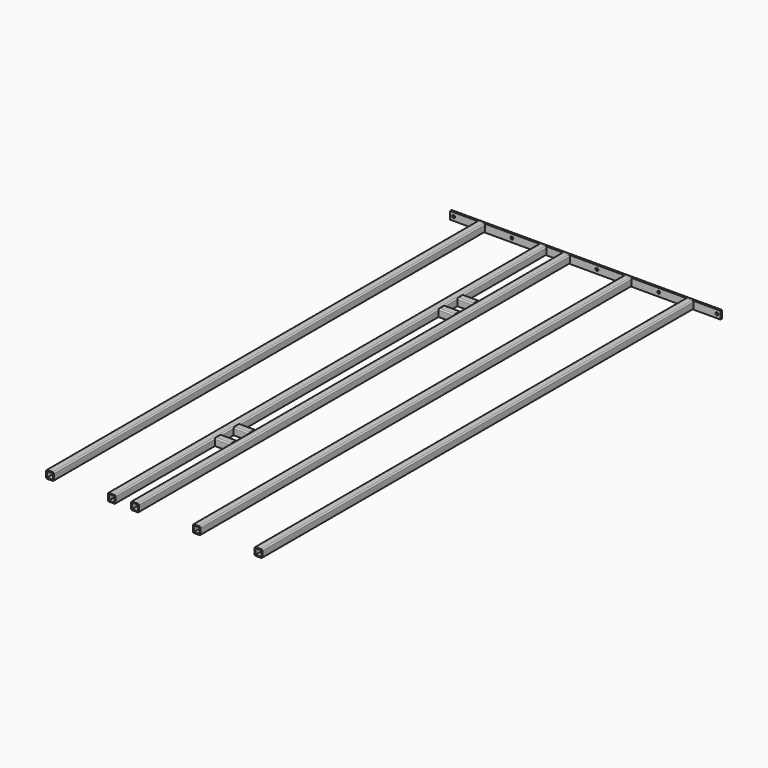
from build123d import *

# Parameters (mm, degrees)
F1_DEPTH = 881.0625
F3_DEPTH = 25.4
F4_W     = 441.96
F4_H     = 12.7
F4_R     = 2.286
F4_R_2   = 0.127
F5_DEPTH = 3.175


with BuildPart() as f1:
    # F0 (on Front) → F1 (new body)
    with BuildSketch(Plane.XZ):
        with BuildLine():
            Line((-4.445, -6.35), (4.445, -6.35))
            ThreePointArc((4.445, -6.35), (5.792038, -5.792038), (6.35, -4.445))
            Line((6.35, -4.445), (6.35, 4.445))
            ThreePointArc((6.35, 4.445), (5.792038, 5.792038), (4.445, 6.35))
            Line((4.445, 6.35), (-4.445, 6.35))
            ThreePointArc((-4.445, 6.35), (-5.792038, 5.792038), (-6.35, 4.445))
            Line((-6.35, 4.445), (-6.35, -4.445))
            ThreePointArc((-6.35, -4.445), (-5.792038, -5.792038), (-4.445, -6.35))
        make_face()
        with BuildLine():
            Line((-4.445, 4.699), (4.445, 4.699))
            ThreePointArc((4.445, 4.699), (4.624605, 4.624605), (4.699, 4.445))
            Line((4.699, 4.445), (4.699, -4.445))
            ThreePointArc((4.699, -4.445), (4.624605, -4.624605), (4.445, -4.699))
            Line((4.445, -4.699), (-4.445, -4.699))
            ThreePointArc((-4.445, -4.699), (-4.624605, -4.624605), (-4.699, -4.445))
            Line((-4.699, -4.445), (-4.699, 4.445))
            ThreePointArc((-4.699, 4.445), (-4.624605, 4.624605), (-4.445, 4.699))
        make_face(mode=Mode.SUBTRACT)
        with BuildLine():
            Line((33.655, -6.35), (42.545, -6.35))
            ThreePointArc((42.545, -6.35), (43.892038, -5.792038), (44.45, -4.445))
            Line((44.45, -4.445), (44.45, 4.445))
            ThreePointArc((44.45, 4.445), (43.892038, 5.792038), (42.545, 6.35))
            Line((42.545, 6.35), (33.655, 6.35))
            ThreePointArc((33.655, 6.35), (32.307962, 5.792038), (31.75, 4.445))
            Line((31.75, 4.445), (31.75, -4.445))
            ThreePointArc((31.75, -4.445), (32.307962, -5.792038), (33.655, -6.35))
        make_face()
        with BuildLine():
            ThreePointArc((33.655, -4.699), (33.475395, -4.624605), (33.401, -4.445))
            Line((33.401, -4.445), (33.401, 4.445))
            ThreePointArc((33.401, 4.445), (33.475395, 4.624605), (33.655, 4.699))
            Line((33.655, 4.699), (42.545, 4.699))
            ThreePointArc((42.545, 4.699), (42.724605, 4.624605), (42.799, 4.445))
            Line((42.799, 4.445), (42.799, -4.445))
            ThreePointArc((42.799, -4.445), (42.724605, -4.624605), (42.545, -4.699))
            Line((42.545, -4.699), (33.655, -4.699))
        make_face(mode=Mode.SUBTRACT)
        with BuildLine():
            Line((132.715, 4.445), (132.715, -4.445))
            ThreePointArc((132.715, -4.445), (133.272962, -5.792038), (134.62, -6.35))
            Line((134.62, -6.35), (143.51, -6.35))
            ThreePointArc((143.51, -6.35), (144.857038, -5.792038), (145.415, -4.445))
            Line((145.415, -4.445), (145.415, 4.445))
            ThreePointArc((145.415, 4.445), (144.857038, 5.792038), (143.51, 6.35))
            Line((143.51, 6.35), (134.62, 6.35))
            ThreePointArc((134.62, 6.35), (133.272962, 5.792038), (132.715, 4.445))
        make_face()
        with BuildLine():
            Line((143.764, 4.445), (143.764, -4.445))
            ThreePointArc((143.764, -4.445), (143.689605, -4.624605), (143.51, -4.699))
            Line((143.51, -4.699), (134.62, -4.699))
            ThreePointArc((134.62, -4.699), (134.440395, -4.624605), (134.366, -4.445))
            Line((134.366, -4.445), (134.366, 4.445))
            ThreePointArc((134.366, 4.445), (134.440395, 4.624605), (134.62, 4.699))
            Line((134.62, 4.699), (143.51, 4.699))
            ThreePointArc((143.51, 4.699), (143.689605, 4.624605), (143.764, 4.445))
        make_face(mode=Mode.SUBTRACT)
        with BuildLine():
            Line((233.68, 4.445), (233.68, -4.445))
            ThreePointArc((233.68, -4.445), (234.237962, -5.792038), (235.585, -6.35))
            Line((235.585, -6.35), (244.475, -6.35))
            ThreePointArc((244.475, -6.35), (245.822038, -5.792038), (246.38, -4.445))
            Line((246.38, -4.445), (246.38, 4.445))
            ThreePointArc((246.38, 4.445), (245.822038, 5.792038), (244.475, 6.35))
            Line((244.475, 6.35), (235.585, 6.35))
            ThreePointArc((235.585, 6.35), (234.237962, 5.792038), (233.68, 4.445))
        make_face()
        with BuildLine():
            Line((244.729, 4.445), (244.729, -4.445))
            ThreePointArc((244.729, -4.445), (244.654605, -4.624605), (244.475, -4.699))
            Line((244.475, -4.699), (235.585, -4.699))
            ThreePointArc((235.585, -4.699), (235.405395, -4.624605), (235.331, -4.445))
            Line((235.331, -4.445), (235.331, 4.445))
            ThreePointArc((235.331, 4.445), (235.405395, 4.624605), (235.585, 4.699))
            Line((235.585, 4.699), (244.475, 4.699))
            ThreePointArc((244.475, 4.699), (244.654605, 4.624605), (244.729, 4.445))
        make_face(mode=Mode.SUBTRACT)
        with BuildLine():
            Line((-105.41, -6.35), (-96.52, -6.35))
            ThreePointArc((-96.52, -6.35), (-95.172962, -5.792038), (-94.615, -4.445))
            Line((-94.615, -4.445), (-94.615, 4.445))
            ThreePointArc((-94.615, 4.445), (-95.172962, 5.792038), (-96.52, 6.35))
            Line((-96.52, 6.35), (-105.41, 6.35))
            ThreePointArc((-105.41, 6.35), (-106.757038, 5.792038), (-107.315, 4.445))
            Line((-107.315, 4.445), (-107.315, -4.445))
            ThreePointArc((-107.315, -4.445), (-106.757038, -5.792038), (-105.41, -6.35))
        make_face()
        with BuildLine():
            ThreePointArc((-96.266, -4.445), (-96.340395, -4.624605), (-96.52, -4.699))
            Line((-96.52, -4.699), (-105.41, -4.699))
            ThreePointArc((-105.41, -4.699), (-105.589605, -4.624605), (-105.664, -4.445))
            Line((-105.664, -4.445), (-105.664, 4.445))
            ThreePointArc((-105.664, 4.445), (-105.589605, 4.624605), (-105.41, 4.699))
            Line((-105.41, 4.699), (-96.52, 4.699))
            ThreePointArc((-96.52, 4.699), (-96.340395, 4.624605), (-96.266, 4.445))
            Line((-96.266, 4.445), (-96.266, -4.445))
        make_face(mode=Mode.SUBTRACT)
    extrude(amount=F1_DEPTH)


with BuildPart() as f3:
    # F2 (on face) → F3 (new body)
    with BuildSketch(Plane.YZ.offset(6.35)):
        with BuildLine():
            ThreePointArc((-665.1625, 4.445), (-665.720462, 5.792038), (-667.0675, 6.35))
            Line((-667.0675, 6.35), (-675.9575, 6.35))
            ThreePointArc((-675.9575, 6.35), (-677.304538, 5.792038), (-677.8625, 4.445))
            Line((-677.8625, 4.445), (-677.8625, -4.445))
            ThreePointArc((-677.8625, -4.445), (-677.304538, -5.792038), (-675.9575, -6.35))
            Line((-675.9575, -6.35), (-667.0675, -6.35))
            ThreePointArc((-667.0675, -6.35), (-665.720462, -5.792038), (-665.1625, -4.445))
            Line((-665.1625, -4.445), (-665.1625, 4.445))
        make_face()
        with BuildLine():
            ThreePointArc((-627.0625, 4.445), (-627.620462, 5.792038), (-628.9675, 6.35))
            Line((-628.9675, 6.35), (-637.8575, 6.35))
            ThreePointArc((-637.8575, 6.35), (-639.204538, 5.792038), (-639.7625, 4.445))
            Line((-639.7625, 4.445), (-639.7625, -4.445))
            ThreePointArc((-639.7625, -4.445), (-639.204538, -5.792038), (-637.8575, -6.35))
            Line((-637.8575, -6.35), (-628.9675, -6.35))
            ThreePointArc((-628.9675, -6.35), (-627.620462, -5.792038), (-627.0625, -4.445))
            Line((-627.0625, -4.445), (-627.0625, 4.445))
        make_face()
        with BuildLine():
            Line((-180.6575, -6.35), (-171.7675, -6.35))
            ThreePointArc((-171.7675, -6.35), (-170.420462, -5.792038), (-169.8625, -4.445))
            Line((-169.8625, -4.445), (-169.8625, 4.445))
            ThreePointArc((-169.8625, 4.445), (-170.420462, 5.792038), (-171.7675, 6.35))
            Line((-171.7675, 6.35), (-180.6575, 6.35))
            ThreePointArc((-180.6575, 6.35), (-182.004538, 5.792038), (-182.5625, 4.445))
            Line((-182.5625, 4.445), (-182.5625, -4.445))
            ThreePointArc((-182.5625, -4.445), (-182.004538, -5.792038), (-180.6575, -6.35))
        make_face()
        with BuildLine():
            ThreePointArc((-207.9625, 4.445), (-208.520462, 5.792038), (-209.8675, 6.35))
            Line((-209.8675, 6.35), (-218.7575, 6.35))
            ThreePointArc((-218.7575, 6.35), (-220.104538, 5.792038), (-220.6625, 4.445))
            Line((-220.6625, 4.445), (-220.6625, -4.445))
            ThreePointArc((-220.6625, -4.445), (-220.104538, -5.792038), (-218.7575, -6.35))
            Line((-218.7575, -6.35), (-209.8675, -6.35))
            ThreePointArc((-209.8675, -6.35), (-208.520462, -5.792038), (-207.9625, -4.445))
            Line((-207.9625, -4.445), (-207.9625, 4.445))
        make_face()
    extrude(amount=F3_DEPTH)


with BuildPart() as f5:
    # F4 (on Front) → F5 (new body)
    with BuildSketch(Plane.XZ):
        with Locations((69.5325, 0)):
            Rectangle(F4_W, F4_H)
        with Locations((-145.7325, 0)):
            Circle(F4_R, mode=Mode.SUBTRACT)
        with Locations((-100.965, 0)):
            Circle(F4_R_2, mode=Mode.SUBTRACT)
        with Locations((-50.4825, 0)):
            Circle(F4_R, mode=Mode.SUBTRACT)
        Circle(F4_R_2, mode=Mode.SUBTRACT)
        with Locations((38.1, 0)):
            Circle(F4_R_2, mode=Mode.SUBTRACT)
        with Locations((88.5825, 0)):
            Circle(F4_R, mode=Mode.SUBTRACT)
        with Locations((139.065, 0)):
            Circle(F4_R_2, mode=Mode.SUBTRACT)
        with Locations((189.5475, 0)):
            Circle(F4_R, mode=Mode.SUBTRACT)
        with Locations((240.03, 0)):
            Circle(F4_R_2, mode=Mode.SUBTRACT)
        with Locations((284.7975, 0)):
            Circle(F4_R, mode=Mode.SUBTRACT)
    extrude(amount=-F5_DEPTH)


solid = Compound([f1.part, f3.part, f5.part])
